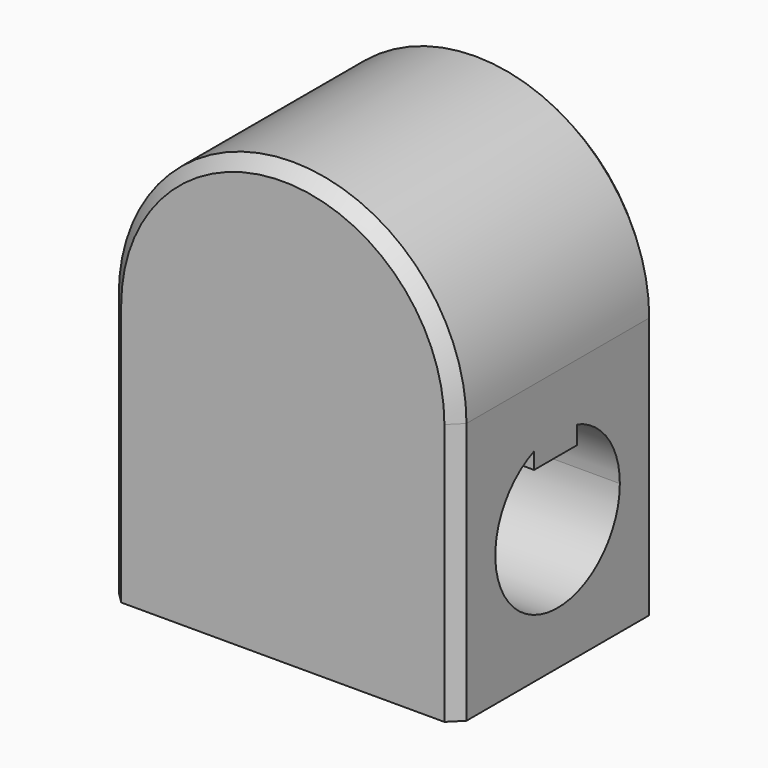
from build123d import *

# Parameters (mm, degrees)
F1_DEPTH = 41.275
F3_DEPTH = 67.31
F4_SIZE  = 2


with BuildPart() as f1:
    # F0 (on Front) → F1 (new body)
    with BuildSketch(Plane.XZ):
        with BuildLine():
            Line((0, 42.709876), (0, 0))
            Line((0, 0), (56.735039, 0))
            Line((56.735039, 0), (56.735039, 42.709876))
            ThreePointArc((56.735039, 42.709876), (28.367519, 71.077395), (0, 42.709876))
        make_face()
    extrude(amount=F1_DEPTH)

    # F2 (on face) → F3 (cut)
    with BuildSketch(Plane.YZ.offset(56.735039)):
        with BuildLine():
            ThreePointArc((-25.487708, 33.117347), (-27.786179, 10.816629), (-7.998581, 21.354938))
            ThreePointArc((-7.998581, 21.354938), (-10.42517, 28.821331), (-16.77764, 33.434517))
            Line((-16.77764, 33.434517), (-16.77764, 30.423621))
            Line((-16.77764, 30.423621), (-25.487708, 30.423621))
            Line((-25.487708, 30.423621), (-25.487708, 33.117347))
        make_face()
    extrude(amount=-F3_DEPTH, mode=Mode.SUBTRACT)

    # F4
    f4_edges = [f1.edges().sort_by_distance(p)[0] for p in [
        (28.367519, -41.275, 71.077395),
        (56.735039, 0, 21.354938),
    ]]
    chamfer(f4_edges, length=F4_SIZE)


solid = f1.part
